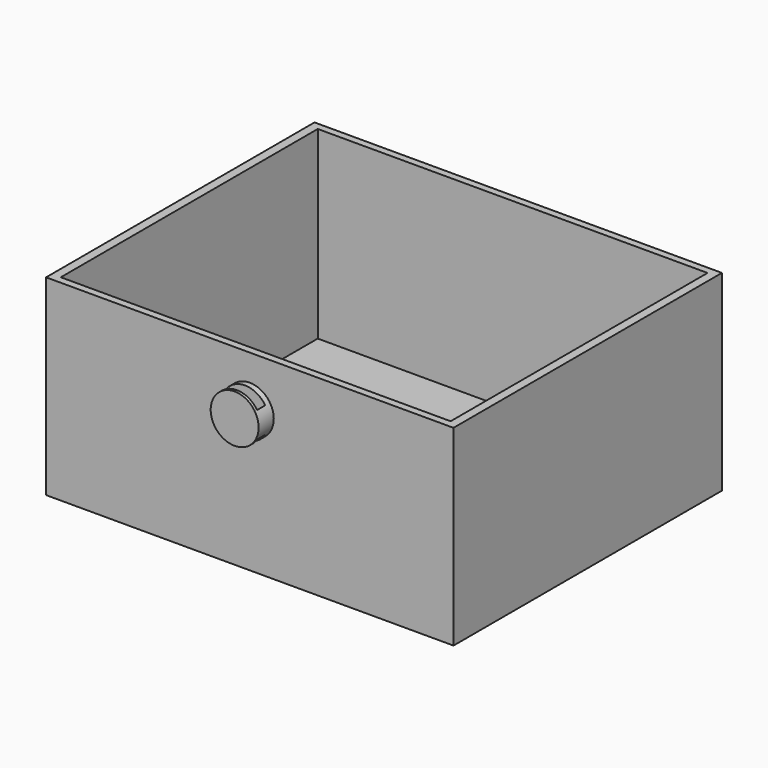
from build123d import *

# Parameters (mm, degrees)
F0_W     = 431.8
F0_H     = 203.2
F1_DEPTH = 355.6
F2_W     = 413.108602
F2_H     = 340.378207
F3_DEPTH = 195.58
F4_R     = 25.4
F5_DEPTH = 20.066
F6_W     = 43.054437
F6_H     = 10.763585
F7_DEPTH = 195.581


with BuildPart() as f1:
    # F0 (on Front) → F1 (new body)
    with BuildSketch(Plane.XZ):
        Rectangle(F0_W, F0_H)
    extrude(amount=F1_DEPTH)

    # F2 (on face) → F3 (cut)
    with BuildSketch(Plane.XY.offset(101.6)):
        with Locations((0.110827, -177.696624)):
            Rectangle(F2_W, F2_H)
    extrude(amount=-F3_DEPTH, mode=Mode.SUBTRACT)

    # F4 (on face) → F5 (join)
    with BuildSketch(Plane.XZ.offset(355.6)):
        with Locations((0, 48.113549)):
            Circle(F4_R)
    extrude(amount=F5_DEPTH)

    # F6 (on face) → F7 (cut, through all)
    with BuildSketch(Plane.XY.offset(-93.98)):
        with Locations((-0.160011, -367.300331)):
            Rectangle(F6_W, F6_H)
    extrude(amount=F7_DEPTH, mode=Mode.SUBTRACT)


solid = f1.part
